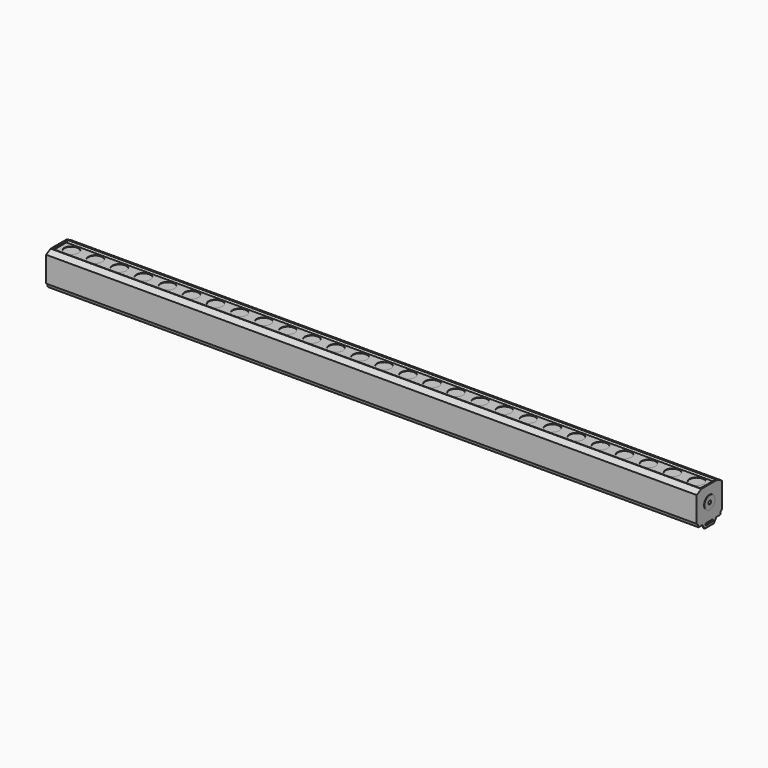
from build123d import *

# Parameters (mm, degrees)
SKETCH_R        = 4
PAD_DEPTH       = 744
POCKET_DEPTH    = 741
SKETCH001_R     = 15
SKETCH001_R_2   = 4
PAD001_DEPTH    = 745
SKETCH003_R     = 16
POCKET001_DEPTH = 1
SKETCH004_W     = 48
SKETCH004_H     = 15
POCKET002_DEPTH = 741


with BuildPart() as part:
    # Sketch → Pad (new body, symmetric)
    with BuildSketch(Plane.YZ):
        Polygon((23, 0), (49, 0), (56, 10), (67, 10), (69, 17), (72, 19), (72, 77), (59, 84), (13, 84), (0, 77), (0, 19), (3, 17), (5, 10), (16, 10), align=None)
        with Locations((36, 48)):
            Circle(SKETCH_R, mode=Mode.SUBTRACT)
        with BuildLine():
            ThreePointArc((27.5, 10), (25, 7.5), (27.5, 5))
            Line((27.5, 5), (44.5, 5))
            ThreePointArc((44.5, 5), (47, 7.5), (44.5, 10))
            Line((27.5, 10), (44.5, 10))
        make_face(mode=Mode.SUBTRACT)
    extrude(amount=PAD_DEPTH, both=True)

    # Sketch002 → Pocket (cut, symmetric)
    with BuildSketch(Plane.YZ):
        Polygon((11, 87.44), (17.5, 80.5), (54.5, 80.5), (61, 87.44), align=None)
    extrude(amount=POCKET_DEPTH, both=True, mode=Mode.SUBTRACT)

    # Sketch001 → Pad001 (join, symmetric)
    with BuildSketch(Plane(origin=(0, 0, 0), x_dir=(0, 1, 0), z_dir=(-1, 0, 0))):
        with Locations((36, -48)):
            Circle(SKETCH001_R)
        with Locations((36, -48)):
            Circle(SKETCH001_R_2, mode=Mode.SUBTRACT)
    extrude(amount=PAD001_DEPTH, both=True)

    # Sketch003 (on Face29 of Pad001) → Pocket001 (cut)
    with BuildSketch(Plane.XY.offset(80.5)):
        with Locations((-715, 36)):
            Circle(SKETCH003_R)
        with Locations((-660, 36)):
            Circle(SKETCH003_R)
        with Locations((-605, 36)):
            Circle(SKETCH003_R)
        with Locations((-550, 36)):
            Circle(SKETCH003_R)
        with Locations((-495, 36)):
            Circle(SKETCH003_R)
        with Locations((-440, 36)):
            Circle(SKETCH003_R)
        with Locations((-385, 36)):
            Circle(SKETCH003_R)
        with Locations((-330, 36)):
            Circle(SKETCH003_R)
        with Locations((-275, 36)):
            Circle(SKETCH003_R)
        with Locations((-220, 36)):
            Circle(SKETCH003_R)
        with Locations((-165, 36)):
            Circle(SKETCH003_R)
        with Locations((-110, 36)):
            Circle(SKETCH003_R)
        with Locations((-55, 36)):
            Circle(SKETCH003_R)
        with Locations((0, 36)):
            Circle(SKETCH003_R)
        with Locations((55, 36)):
            Circle(SKETCH003_R)
        with Locations((110, 36)):
            Circle(SKETCH003_R)
        with Locations((165, 36)):
            Circle(SKETCH003_R)
        with Locations((220, 36)):
            Circle(SKETCH003_R)
        with Locations((275, 36)):
            Circle(SKETCH003_R)
        with Locations((330, 36)):
            Circle(SKETCH003_R)
        with Locations((385, 36)):
            Circle(SKETCH003_R)
        with Locations((440, 36)):
            Circle(SKETCH003_R)
        with Locations((495, 36)):
            Circle(SKETCH003_R)
        with Locations((550, 36)):
            Circle(SKETCH003_R)
        with Locations((605, 36)):
            Circle(SKETCH003_R)
        with Locations((660, 36)):
            Circle(SKETCH003_R)
        with Locations((715, 36)):
            Circle(SKETCH003_R)
    extrude(amount=-POCKET001_DEPTH, mode=Mode.SUBTRACT)

    # Sketch004 → Pocket002 (cut, symmetric)
    with BuildSketch(Plane.YZ):
        with Locations((36, 7.5)):
            Rectangle(SKETCH004_W, SKETCH004_H)
    extrude(amount=POCKET002_DEPTH, both=True, mode=Mode.SUBTRACT)


solid = part.part
